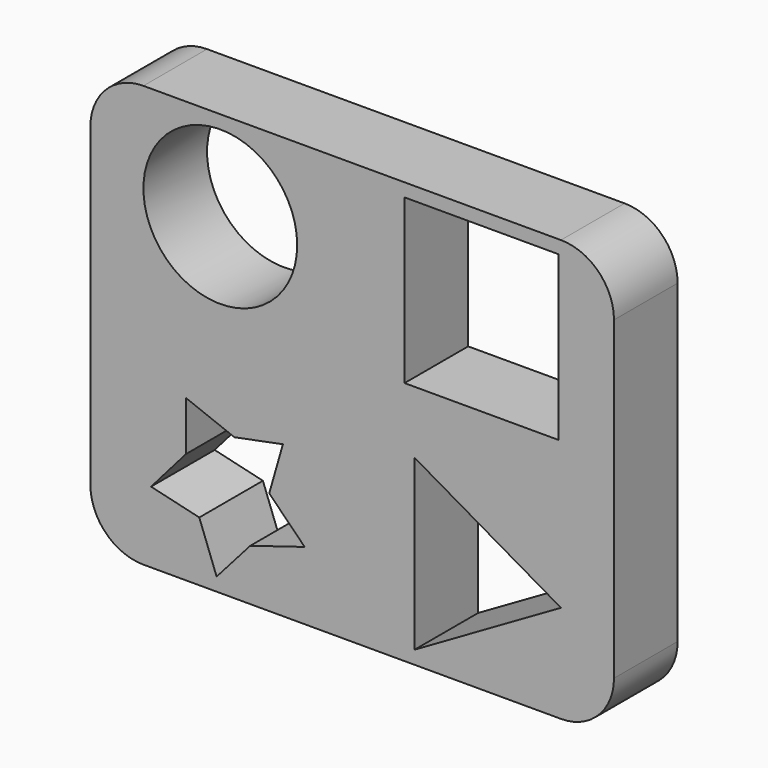
from build123d import *

# Parameters (mm, degrees)
F0_R     = 7.366
F1_DEPTH = 7.62


with BuildPart() as f1:
    # F0 (on Front) → F1 (new body)
    with BuildSketch(Plane.XZ):
        with BuildLine():
            ThreePointArc((0, 5.08), (1.487898, 1.487898), (5.08, 0))
            Line((5.08, 0), (12.3952, 0))
            Line((12.3952, 0), (45.085, 0))
            ThreePointArc((45.085, 0), (48.677102, 1.487898), (50.165, 5.08))
            Line((50.165, 5.08), (50.165, 35.306))
            ThreePointArc((50.165, 35.306), (48.677102, 38.898102), (45.085, 40.386))
            Line((45.085, 40.386), (5.08, 40.386))
            ThreePointArc((5.08, 40.386), (1.487898, 38.898102), (0, 35.306))
            Line((0, 35.306), (0, 5.08))
        make_face()
        Polygon((15.317026, 4.921452), (12.092736, 1.27), (10.433039, 5.720394), (5.811439, 6.816485), (9.150001, 10.650024), (9.150001, 15.391108), (13.79747, 13.581598), (18.444939, 14.500056), (17.134047, 9.934734), (20.529886, 6.519335), align=None, mode=Mode.SUBTRACT)
        Polygon((45.085, 9.3726), (31.050885, 1.27), (31.050885, 17.4752), align=None, mode=Mode.SUBTRACT)
        with Locations((12.446, 31.744603)):
            Circle(F0_R, mode=Mode.SUBTRACT)
        Polygon((30.100089, 39.116), (44.832089, 39.116), (44.832089, 23.538094), (44.832089, 23.451079), (30.100089, 23.451079), align=None, mode=Mode.SUBTRACT)
    extrude(amount=F1_DEPTH)


solid = f1.part
